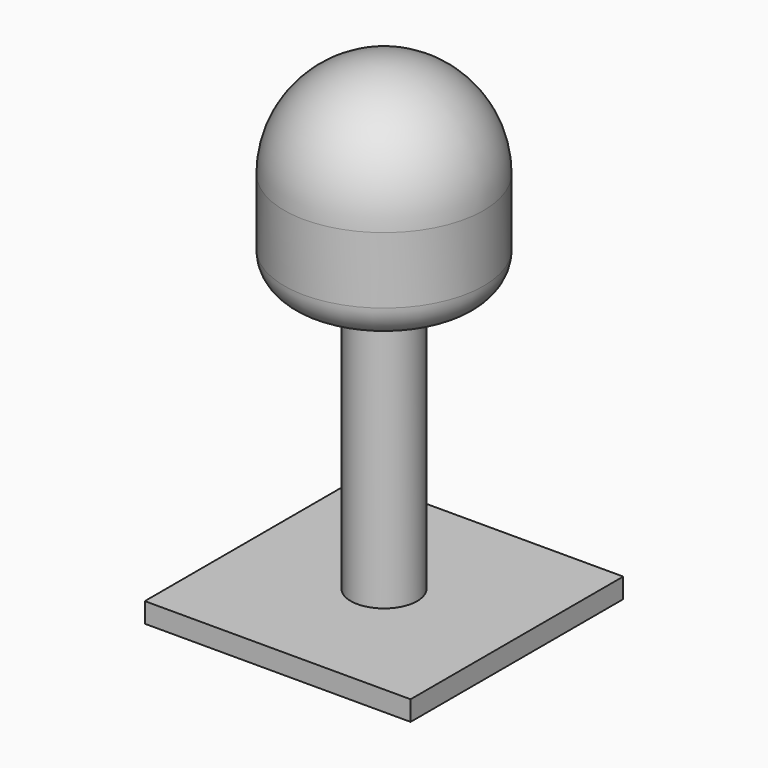
from build123d import *

# Parameters (mm, degrees)
F0_W     = 40
F0_H     = 40
F1_DEPTH = 3
F2_R     = 5
F3_DEPTH = 40
F4_R     = 15
F5_DEPTH = 30
F6_R     = 15
F7_R     = 5


with BuildPart() as f1:
    # F0 (on Top) → F1 (new body)
    with BuildSketch(Plane.XY):
        Rectangle(F0_W, F0_H)
    extrude(amount=F1_DEPTH)

    # F2 (on face) → F3 (join)
    with BuildSketch(Plane.XY.offset(3)):
        Circle(F2_R)
    extrude(amount=F3_DEPTH)

    # F4 (on face) → F5 (join)
    with BuildSketch(Plane.XY.offset(43)):
        Circle(F4_R)
    extrude(amount=F5_DEPTH)

    # F6
    f6_edges = [f1.edges().sort_by_distance(p)[0] for p in [
        (-15, 0, 73),
    ]]
    fillet(f6_edges, radius=F6_R)

    # F7
    f7_edges = [f1.edges().sort_by_distance(p)[0] for p in [
        (-15, 0, 43),
    ]]
    fillet(f7_edges, radius=F7_R)


solid = f1.part
